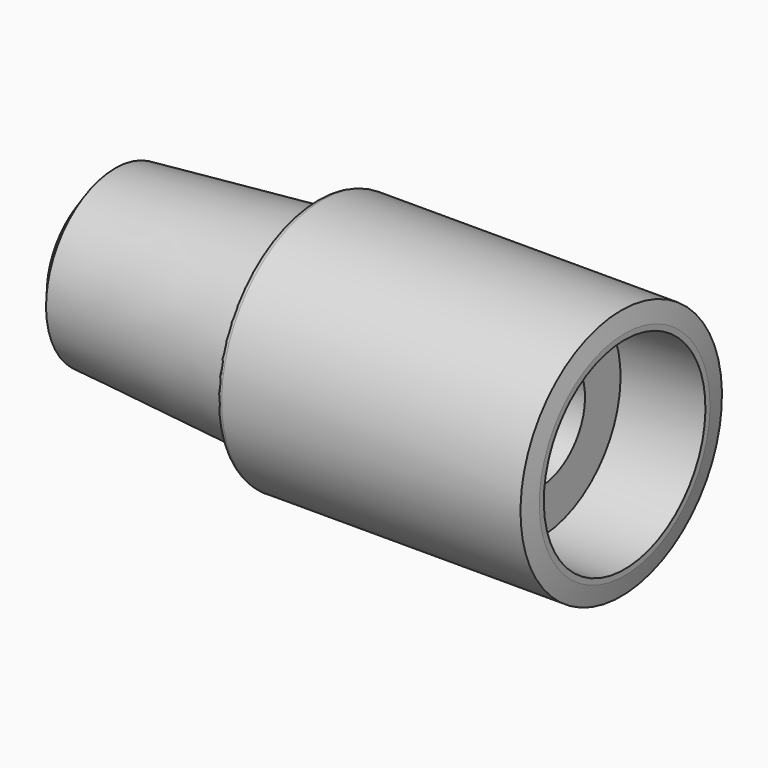
from build123d import *


with BuildPart() as f1:
    # F0 (on Front) → F1 (revolve)
    with BuildSketch(Plane.XZ):
        with BuildLine():
            Line((-153, 20), (0, 20))
            Line((0, 20), (0, 35.7))
            Line((0, 35.7), (30, 35.7))
            Line((30, 35.7), (30, 37.7))
            Line((30, 37.7), (28.800977, 44.5))
            Line((28.800977, 44.5), (-76.8, 44.5))
            ThreePointArc((-76.8, 44.5), (-78.214214, 43.914214), (-78.8, 42.5))
            Line((-78.8, 42.5), (-78.8, 36.507623))
            Line((-78.8, 36.507623), (-82.924506, 36.164178))
            Line((-82.924506, 36.164178), (-150, 30.578847))
            Line((-150, 30.578847), (-155, 24))
            Line((-155, 24), (-155, 22))
            ThreePointArc((-155, 22), (-154.414214, 20.585786), (-153, 20))
        make_face()
    revolve(axis=Axis((-73.417992, 0, 0), (1, 0, 0)))


solid = f1.part
